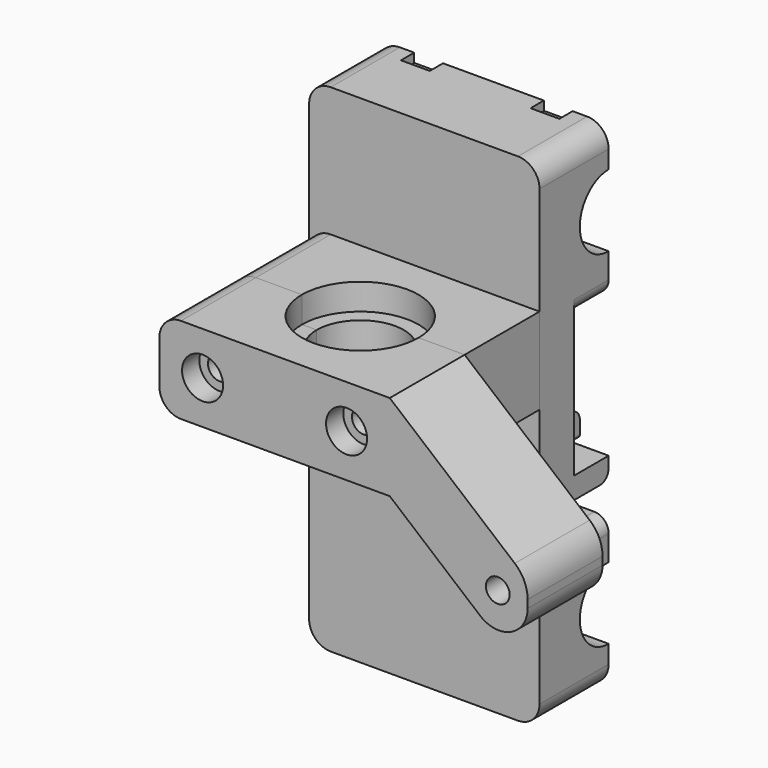
from build123d import *

# Parameters (mm, degrees)
F0_W      = 32
F0_H      = 69
F1_DEPTH  = 6
F2_W      = 32
F2_H      = 21
F3_DEPTH  = 6
F5_R      = 8
F6_DEPTH  = 25
F8_DEPTH  = 32
F11_R     = 10.75
F11_R_2   = 9.25
F12_DEPTH = 4
F13_R     = 10.75
F13_R_2   = 9.25
F14_DEPTH = 4
F15_R     = 2
F16_R     = 3
F17_R     = 1.65
F18_DEPTH = 6.001
F19_DEPTH = 3
F20_W     = 32
F20_H     = 12
F20_R     = 1.65
F21_DEPTH = 13
F22_DEPTH = 13
F23_R     = 3
F23_2_R   = 3
F25_DEPTH = 3.65
F27_DEPTH = 3
F29_DEPTH = 25
F30_R     = 2.85
F31_DEPTH = 3
F32_W     = 14.32
F32_H     = 3
F32_W_2   = 0.08
F33_DEPTH = 6
F34_R     = 1.5
F36_DEPTH = 13
F37_R     = 5
F38_R     = 4
F39_R     = 1.65
F40_DEPTH = 13


with BuildPart() as f1:
    # F0 (on Front) → F1 (new body)
    with BuildSketch(Plane.XZ):
        Rectangle(F0_W, F0_H)
    extrude(amount=F1_DEPTH)

    # F2 (on face) → F3 (join)
    with BuildSketch(Plane.XZ):
        with Locations((0, 24)):
            Rectangle(F2_W, F2_H)
        with Locations((0, -24)):
            Rectangle(F2_W, F2_H)
    extrude(amount=-F3_DEPTH)

    # F5 (on offset) → F6 (cut)
    with BuildSketch(Plane.YZ.offset(12.5)):
        with Locations((6, 24)):
            Circle(F5_R)
        with Locations((6, -24)):
            Circle(F5_R)
    extrude(amount=-F6_DEPTH, mode=Mode.SUBTRACT)

    # F7 (on face) → F8 (cut, through all)
    with BuildSketch(Plane.YZ.offset(16)):
        with BuildLine():
            Line((6, 19), (6, 29))
            ThreePointArc((6, 29), (1, 24), (6, 19))
        make_face()
        with BuildLine():
            ThreePointArc((6, -19), (1, -24), (6, -29))
            Line((6, -29), (6, -19))
        make_face()
    extrude(amount=-F8_DEPTH, mode=Mode.SUBTRACT)

    # F11 (on offset) → F12 (cut)
    with BuildSketch(Plane.YZ.offset(11)):
        with Locations((6, 24)):
            Circle(F11_R)
        with Locations((6, 24)):
            Circle(F11_R_2, mode=Mode.SUBTRACT)
        with Locations((6, -24)):
            Circle(F11_R)
        with Locations((6, -24)):
            Circle(F11_R_2, mode=Mode.SUBTRACT)
    extrude(amount=-F12_DEPTH, mode=Mode.SUBTRACT)

    # F13 (on offset) → F14 (cut)
    with BuildSketch(Plane(origin=(-11, 0, 0), x_dir=(0, -1, 0), z_dir=(-1, 0, 0))):
        with Locations((-6, 24)):
            Circle(F13_R)
        with Locations((-6, 24)):
            Circle(F13_R_2, mode=Mode.SUBTRACT)
        with Locations((-6, -24)):
            Circle(F13_R)
        with Locations((-6, -24)):
            Circle(F13_R_2, mode=Mode.SUBTRACT)
    extrude(amount=-F14_DEPTH, mode=Mode.SUBTRACT)

    # F15
    f15_edges = [f1.edges().sort_by_distance(p)[0] for p in [
        (16, 3, 13.5),
        (-16, 3, 13.5),
        (16, 3, -13.5),
        (-16, 3, -13.5),
    ]]
    fillet(f15_edges, radius=F15_R)

    # F16
    f16_edges = [f1.edges().sort_by_distance(p)[0] for p in [
        (16, 0, -34.5),
        (-16, 0, -34.5),
        (16, 0, 34.5),
        (-16, 0, 34.5),
    ]]
    fillet(f16_edges, radius=F16_R)

    # F17 (on face) → F18 (cut, through all)
    with BuildSketch(Plane(origin=(0, 0, 0), x_dir=(-1, 0, 0), z_dir=(0, 1, 0))):
        with Locations((-10, 10.5)):
            Circle(F17_R)
        with Locations((10, 10.5)):
            Circle(F17_R)
    extrude(amount=-F18_DEPTH, mode=Mode.SUBTRACT)

    # F17 (on face) → F19 (cut)
    with BuildSketch(Plane(origin=(0, 0, 0), x_dir=(-1, 0, 0), z_dir=(0, 1, 0))):
        Polygon((-11.6165807537, 13.3), (-13.2331615075, 10.5), (-11.6165807537, 7.7), (-8.3834192463, 7.7), (-6.7668384925, 10.5), (-8.3834192463, 13.3), align=None)
        with Locations((-10, 10.5)):
            Circle(F17_R, mode=Mode.SUBTRACT)
        Polygon((8.3834192463, 13.3), (6.7668384925, 10.5), (8.3834192463, 7.7), (11.6165807537, 7.7), (13.2331615075, 10.5), (11.6165807537, 13.3), align=None)
        with Locations((10, 10.5)):
            Circle(F17_R, mode=Mode.SUBTRACT)
    extrude(amount=-F19_DEPTH, mode=Mode.SUBTRACT)

    # F32 (on face) → F33 (join)
    with BuildSketch(Plane.XZ):
        Polygon((12, -4.42), (12, -1.42), (-12, -1.42), (-12, -4.42), (-10.88, -4.42), (-10, -4.42), (-8.8, -4.42), (-7.92, -4.42), (-6.72, -4.42), (-5.84, -4.42), (-4.64, -4.42), (-3.76, -4.42), (-2.56, -4.42), (-1.68, -4.42), (-0.48, -4.42), (0.4, -4.42), (1.6, -4.42), (2.48, -4.42), (3.68, -4.42), (4.56, -4.42), (5.76, -4.42), (6.64, -4.42), (7.84, -4.42), (8.72, -4.42), (9.92, -4.42), (10.8, -4.42), align=None)
        with Locations((-8.84, -7.5)):
            Rectangle(F32_W, F32_H)
        with Locations((8.84, -7.5)):
            Rectangle(F32_W, F32_H)
        with BuildLine():
            Line((12, -4.72), (12, -4.42))
            Line((12, -4.42), (10.8, -4.42))
            Line((10.8, -4.42), (10.8, -4.72))
            ThreePointArc((10.8, -4.72), (10.9318019485, -5.0381980515), (11.25, -5.17))
            Line((11.25, -5.17), (11.55, -5.17))
            ThreePointArc((11.55, -5.17), (11.8681980515, -5.0381980515), (12, -4.72))
        make_face()
        with BuildLine():
            Line((7.84, -4.72), (7.84, -4.42))
            Line((7.84, -4.42), (6.64, -4.42))
            Line((6.64, -4.42), (6.64, -4.72))
            ThreePointArc((6.64, -4.72), (6.7718019485, -5.0381980515), (7.09, -5.17))
            Line((7.09, -5.17), (7.39, -5.17))
            ThreePointArc((7.39, -5.17), (7.7081980515, -5.0381980515), (7.84, -4.72))
        make_face()
        with BuildLine():
            Line((9.92, -4.72), (9.92, -4.42))
            Line((9.92, -4.42), (8.72, -4.42))
            Line((8.72, -4.42), (8.72, -4.72))
            ThreePointArc((8.72, -4.72), (8.8518019485, -5.0381980515), (9.17, -5.17))
            Line((9.17, -5.17), (9.47, -5.17))
            ThreePointArc((9.47, -5.17), (9.7881980515, -5.0381980515), (9.92, -4.72))
        make_face()
        with BuildLine():
            Line((5.76, -4.72), (5.76, -4.42))
            Line((5.76, -4.42), (4.56, -4.42))
            Line((4.56, -4.42), (4.56, -4.72))
            ThreePointArc((4.56, -4.72), (4.6918019485, -5.0381980515), (5.01, -5.17))
            Line((5.01, -5.17), (5.31, -5.17))
            ThreePointArc((5.31, -5.17), (5.6281980515, -5.0381980515), (5.76, -4.72))
        make_face()
        with BuildLine():
            Line((3.68, -4.72), (3.68, -4.42))
            Line((3.68, -4.42), (2.48, -4.42))
            Line((2.48, -4.42), (2.48, -4.72))
            ThreePointArc((2.48, -4.72), (2.6118019485, -5.0381980515), (2.93, -5.17))
            Line((2.93, -5.17), (3.23, -5.17))
            ThreePointArc((3.23, -5.17), (3.5481980515, -5.0381980515), (3.68, -4.72))
        make_face()
        with BuildLine():
            Line((1.6, -4.72), (1.6, -4.42))
            Line((1.6, -4.42), (0.4, -4.42))
            Line((0.4, -4.42), (0.4, -4.72))
            ThreePointArc((0.4, -4.72), (0.5318019485, -5.0381980515), (0.85, -5.17))
            Line((0.85, -5.17), (1.15, -5.17))
            ThreePointArc((1.15, -5.17), (1.4681980515, -5.0381980515), (1.6, -4.72))
        make_face()
        with BuildLine():
            Line((-0.48, -4.42), (-1.68, -4.42))
            Line((-1.68, -4.42), (-1.68, -4.72))
            ThreePointArc((-1.68, -4.72), (-1.5481980515, -5.0381980515), (-1.23, -5.17))
            Line((-1.23, -5.17), (-0.93, -5.17))
            ThreePointArc((-0.93, -5.17), (-0.6118019485, -5.0381980515), (-0.48, -4.72))
            Line((-0.48, -4.72), (-0.48, -4.42))
        make_face()
        with BuildLine():
            Line((-2.56, -4.42), (-3.76, -4.42))
            Line((-3.76, -4.42), (-3.76, -4.72))
            ThreePointArc((-3.76, -4.72), (-3.6281980515, -5.0381980515), (-3.31, -5.17))
            Line((-3.31, -5.17), (-3.01, -5.17))
            ThreePointArc((-3.01, -5.17), (-2.6918019485, -5.0381980515), (-2.56, -4.72))
            Line((-2.56, -4.72), (-2.56, -4.42))
        make_face()
        with BuildLine():
            Line((-4.64, -4.42), (-5.84, -4.42))
            Line((-5.84, -4.42), (-5.84, -4.72))
            ThreePointArc((-5.84, -4.72), (-5.7081980515, -5.0381980515), (-5.39, -5.17))
            Line((-5.39, -5.17), (-5.09, -5.17))
            ThreePointArc((-5.09, -5.17), (-4.7718019485, -5.0381980515), (-4.64, -4.72))
            Line((-4.64, -4.72), (-4.64, -4.42))
        make_face()
        with Locations((-12.04, -2.92)):
            Rectangle(F32_W_2, F32_H)
        with BuildLine():
            Line((-6.72, -4.42), (-7.92, -4.42))
            Line((-7.92, -4.42), (-7.92, -4.72))
            ThreePointArc((-7.92, -4.72), (-7.7881980515, -5.0381980515), (-7.47, -5.17))
            Line((-7.47, -5.17), (-7.17, -5.17))
            ThreePointArc((-7.17, -5.17), (-6.8518019485, -5.0381980515), (-6.72, -4.72))
            Line((-6.72, -4.72), (-6.72, -4.42))
        make_face()
        with BuildLine():
            Line((-8.8, -4.42), (-10, -4.42))
            Line((-10, -4.42), (-10, -4.72))
            ThreePointArc((-10, -4.72), (-9.8681980515, -5.0381980515), (-9.55, -5.17))
            Line((-9.55, -5.17), (-9.25, -5.17))
            ThreePointArc((-9.25, -5.17), (-8.9318019485, -5.0381980515), (-8.8, -4.72))
            Line((-8.8, -4.72), (-8.8, -4.42))
        make_face()
        with Locations((-12.04, -2.92)):
            Rectangle(F32_W_2, F32_H)
        with BuildLine():
            Line((-10.88, -4.42), (-12, -4.42))
            Line((-12, -4.42), (-12.08, -4.42))
            Line((-12.08, -4.42), (-12.08, -4.72))
            ThreePointArc((-12.08, -4.72), (-11.9481980515, -5.0381980515), (-11.63, -5.17))
            Line((-11.63, -5.17), (-11.33, -5.17))
            ThreePointArc((-11.33, -5.17), (-11.0118019485, -5.0381980515), (-10.88, -4.72))
            Line((-10.88, -4.72), (-10.88, -4.42))
        make_face()
    extrude(amount=-F33_DEPTH)

    # F34
    f34_edges = [f1.edges().sort_by_distance(p)[0] for p in [
        (-8.84, 6, -9),
        (8.84, 6, -9),
        (-0.04, 6, -1.42),
    ]]
    fillet(f34_edges, radius=F34_R)


with BuildPart() as f21:
    # F20 (on face) → F21 (new body)
    with BuildSketch(Plane.XZ.offset(6)):
        with Locations((0, 10.5)):
            Rectangle(F20_W, F20_H)
        with Locations((-10, 10.5)):
            Circle(F20_R, mode=Mode.SUBTRACT)
        with Locations((10, 10.5)):
            Circle(F20_R, mode=Mode.SUBTRACT)
    extrude(amount=F21_DEPTH)


with BuildPart() as f22:
    # F22 (new): a face of the model
    f22_faces = [f21.part.faces().sort_by_distance(p)[0] for p in [
        (0, -19, 10.5),
    ]]
    extrude(f22_faces, amount=F22_DEPTH)

    # F23#2
    f23_2_edges = [f22.edges().sort_by_distance(p)[0] for p in [
        (-16, -25.5, 4.5),
        (-16, -25.5, 16.5),
    ]]
    fillet(f23_2_edges, radius=F23_2_R)


with BuildPart() as f21_1:
    add(f21.part)

    # F23
    f23_edges = [f21_1.edges().sort_by_distance(p)[0] for p in [
        (-16, -12.5, 4.5),
        (-16, -12.5, 16.5),
    ]]
    fillet(f23_edges, radius=F23_R)


with BuildPart() as f25_tool:
    # F24 (on face) → F25 (new body)
    with BuildSketch(Plane.XY.offset(16.5)):
        with BuildLine():
            Line((-6.6, -19), (9.6, -19))
            ThreePointArc((9.6, -19), (1.5, -10.9), (-6.6, -19))
        make_face()
        with BuildLine():
            ThreePointArc((-6.6, -19), (1.5, -27.1), (9.6, -19))
            Line((9.6, -19), (-6.6, -19))
        make_face()
    extrude(amount=-F25_DEPTH)


with BuildPart() as f21_2:
    add(f21_1.part)

    # F25: cut by f25_tool
    add(f25_tool.part, mode=Mode.SUBTRACT)


with BuildPart() as f22_1:
    add(f22.part)

    # F25: cut by f25_tool
    add(f25_tool.part, mode=Mode.SUBTRACT)


with BuildPart() as f27_tool:
    # F26 (on face) → F27 (new body)
    with BuildSketch(Plane(origin=(0, 0, 4.5), x_dir=(1, 0, 0), z_dir=(0, 0, -1))):
        with BuildLine():
            Line((-6.6, 19), (9.6, 19))
            ThreePointArc((9.6, 19), (1.5, 27.1), (-6.6, 19))
        make_face()
        with BuildLine():
            ThreePointArc((-6.6, 19), (1.5, 10.9), (9.6, 19))
            Line((9.6, 19), (-6.6, 19))
        make_face()
    extrude(amount=-F27_DEPTH)


with BuildPart() as f21_3:
    add(f21_2.part)

    # F27: cut by f27_tool
    add(f27_tool.part, mode=Mode.SUBTRACT)


with BuildPart() as f22_2:
    add(f22_1.part)

    # F27: cut by f27_tool
    add(f27_tool.part, mode=Mode.SUBTRACT)


with BuildPart() as f29_tool:
    # F28 (on face) → F29 (new body)
    with BuildSketch(Plane.XY.offset(12.85)):
        with BuildLine():
            Line((-4.55, -19), (7.55, -19))
            ThreePointArc((7.55, -19), (1.5, -12.95), (-4.55, -19))
        make_face()
        with BuildLine():
            ThreePointArc((-4.55, -19), (1.5, -25.05), (7.55, -19))
            Line((7.55, -19), (-4.55, -19))
        make_face()
    extrude(amount=-F29_DEPTH)


with BuildPart() as f21_4:
    add(f21_3.part)

    # F29: cut by f29_tool
    add(f29_tool.part, mode=Mode.SUBTRACT)


with BuildPart() as f22_3:
    add(f22_2.part)

    # F29: cut by f29_tool
    add(f29_tool.part, mode=Mode.SUBTRACT)

    # F30 (on face) → F31 (cut)
    with BuildSketch(Plane.XZ.offset(32)):
        with Locations((-10, 10.5)):
            Circle(F30_R)
        with Locations((10, 10.5)):
            Circle(F30_R)
    extrude(amount=-F31_DEPTH, mode=Mode.SUBTRACT)

    # F35 (on face) → F36 (join)
    with BuildSketch(Plane.XZ.offset(19)):
        Polygon((35.151111078, 0.4303097578), (16, 16.5), (16, 4.5), (35.151111078, -11.5696902422), align=None)
    extrude(amount=F36_DEPTH)

    # F37
    f37_edges = [f22_3.edges().sort_by_distance(p)[0] for p in [
        (35.151111, -25.5, 0.43031),
    ]]
    fillet(f37_edges, radius=F37_R)

    # F38
    f38_edges = [f22_3.edges().sort_by_distance(p)[0] for p in [
        (35.151111, -25.5, -11.56969),
    ]]
    fillet(f38_edges, radius=F38_R)

    # F39 (on face) → F40 (cut, through all)
    with BuildSketch(Plane.XZ.offset(32)):
        with Locations((31, -2.1468913012)):
            Circle(F39_R)
    extrude(amount=-F40_DEPTH, mode=Mode.SUBTRACT)


solid = Compound([f1.part, f21_4.part, f22_3.part])
